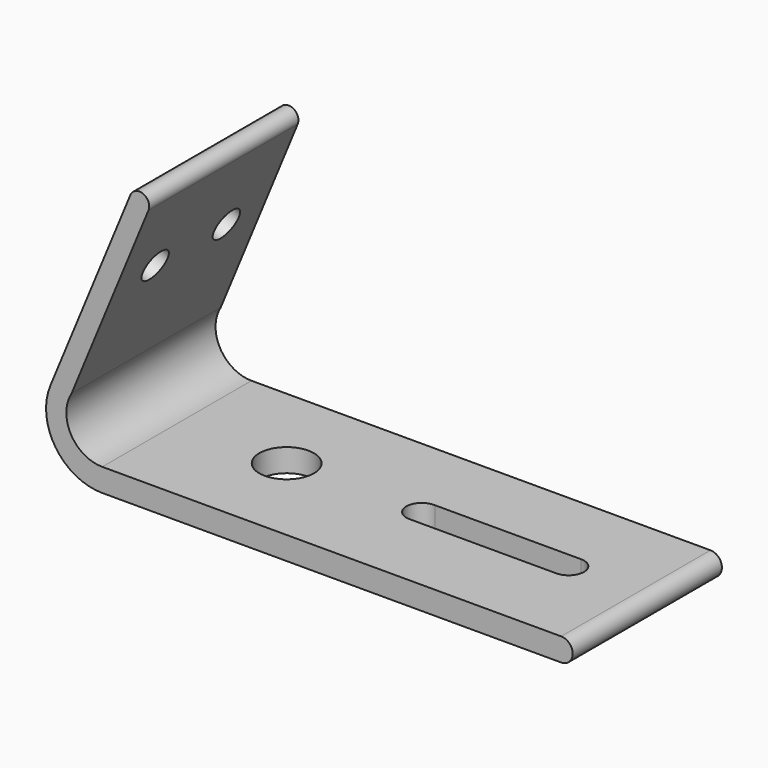
from build123d import *

# Parameters (mm, degrees)
F1_DEPTH = 38.1
F2_R     = 5.5756630796
F3_DEPTH = 25.4
F4_R     = 3.175
F5_DEPTH = 25.4


with BuildPart() as f1:
    # F0 (on Front) → F1 (new body)
    with BuildSketch(Plane.XZ):
        with BuildLine():
            Line((-32.8956767917, 0), (60.8509816229, 0))
            ThreePointArc((60.8509816229, 0), (63.2006728556, 2.3496912327), (60.8509816229, 4.6993824653))
            Line((60.8509816229, 4.6993824653), (-32.8956767917, 4.6993824653))
            ThreePointArc((-32.8956767917, 4.6993824653), (-39.2909683128, 8.4415319313), (-39.1615219414, 15.8500864396))
            Line((-39.1615219414, 15.8500864396), (-23.4511158537, 53.9007586853))
            ThreePointArc((-23.4511158537, 53.9007586853), (-24.5476949895, 56.5224848042), (-27.1643130178, 55.4137721553))
            Line((-27.1643130178, 55.4137721553), (-43.4994138777, 15.8500864396))
            ThreePointArc((-43.4994138777, 15.8500864396), (-42.43067129, 5.0930741417), (-32.8956767917, 0))
        make_face()
    extrude(amount=F1_DEPTH)

    # F2 (on face) → F3 (cut)
    with BuildSketch(Plane.XY.offset(4.6993824653)):
        with Locations((-10.7061062008, -18.751559779)):
            Circle(F2_R)
        with BuildLine():
            Line((46.6441214085, -15.3064941987), (16.8544258922, -15.3064941987))
            ThreePointArc((16.8544258922, -15.3064941987), (13.5090501422, -18.3429366679), (16.6517738253, -21.5886738151))
            Line((16.6517738253, -21.5886738151), (46.6441214085, -21.5886738151))
            ThreePointArc((46.6441214085, -21.5886738151), (49.7852112167, -18.4475840069), (46.6441214085, -15.3064941987))
        make_face()
    extrude(amount=-F3_DEPTH, mode=Mode.SUBTRACT)

    # F4 (on face) → F5 (cut)
    with BuildSketch(Plane(origin=(-42.7551148795, 0, 17.6527818681), x_dir=(0, -1, 0), z_dir=(-0.9243143528, 0, 0.3816319917))):
        with Locations((9.8523907273, 23.3707670122)):
            Circle(F4_R)
        with Locations((28.044729707, 23.3707670122)):
            Circle(F4_R)
    extrude(amount=-F5_DEPTH, mode=Mode.SUBTRACT)


solid = f1.part
